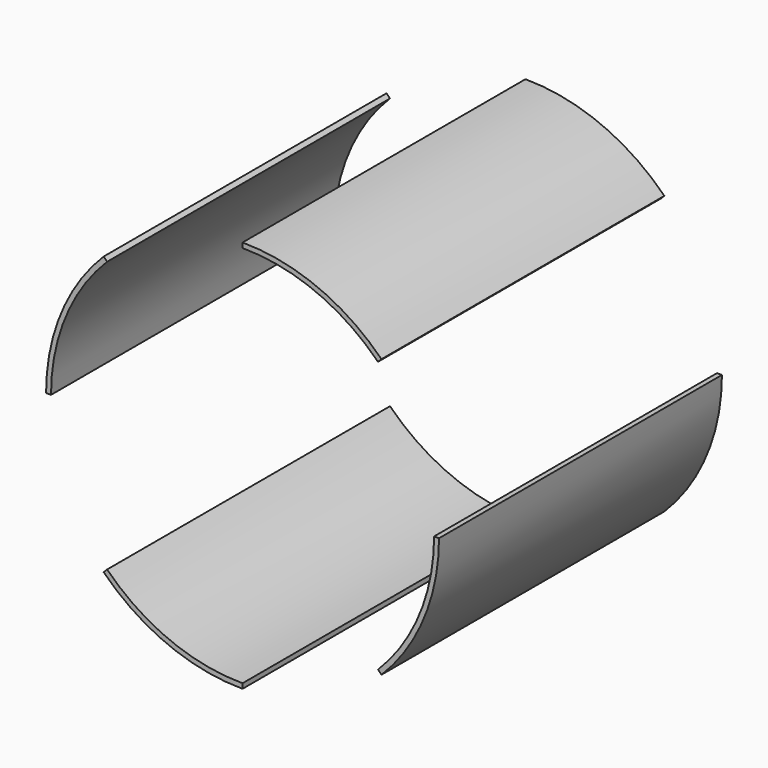
from build123d import *

# Parameters (mm, degrees)
F1_DEPTH = 228.6
F2_DEPTH = 254


with BuildPart() as f1:
    # F0 (on Front) → F1 (new body, symmetric)
    with BuildSketch(Plane.XZ):
        with BuildLine():
            Line((247.65, 0), (254, 0))
            ThreePointArc((254, 0), (234.6654012579, 97.2015918207), (179.6051224214, 179.6051224214))
            Line((179.6051224214, 179.6051224214), (175.1149943608, 175.1149943608))
            ThreePointArc((175.1149943608, 175.1149943608), (228.7987662264, 94.7715520252), (247.65, 0))
        make_face()
        with BuildLine():
            ThreePointArc((179.6051224214, -179.6051224214), (234.6654012579, -97.2015918207), (254, 0))
            Line((254, 0), (247.65, 0))
            ThreePointArc((247.65, 0), (228.7987662264, -94.7715520252), (175.1149943608, -175.1149943608))
            Line((175.1149943608, -175.1149943608), (179.6051224214, -179.6051224214))
        make_face()
        with BuildLine():
            Line((175.1149943608, 175.1149943608), (179.6051224214, 179.6051224214))
            ThreePointArc((179.6051224214, 179.6051224214), (97.2015918207, 234.6654012579), (0, 254))
            Line((0, 254), (0, 247.65))
            ThreePointArc((0, 247.65), (94.7715520252, 228.7987662264), (175.1149943608, 175.1149943608))
        make_face()
        with BuildLine():
            ThreePointArc((0, -254), (97.2015918207, -234.6654012579), (179.6051224214, -179.6051224214))
            Line((179.6051224214, -179.6051224214), (175.1149943608, -175.1149943608))
            ThreePointArc((175.1149943608, -175.1149943608), (94.7715520252, -228.7987662264), (0, -247.65))
            Line((0, -247.65), (0, -254))
        make_face()
        with BuildLine():
            Line((0, 247.65), (0, 254))
            ThreePointArc((0, 254), (-97.2015918207, 234.6654012579), (-179.6051224214, 179.6051224214))
            Line((-179.6051224214, 179.6051224214), (-175.1149943608, 175.1149943608))
            ThreePointArc((-175.1149943608, 175.1149943609), (-94.7715520252, 228.7987662264), (0, 247.65))
        make_face()
        with BuildLine():
            ThreePointArc((-179.6051224214, -179.6051224214), (-97.2015918207, -234.6654012579), (0, -254))
            Line((0, -254), (0, -247.65))
            ThreePointArc((0, -247.65), (-94.7715520252, -228.7987662264), (-175.1149943608, -175.1149943609))
            Line((-175.1149943608, -175.1149943608), (-179.6051224214, -179.6051224214))
        make_face()
        with BuildLine():
            Line((-175.1149943608, 175.1149943608), (-179.6051224214, 179.6051224214))
            ThreePointArc((-179.6051224214, 179.6051224214), (-234.6654012579, 97.2015918207), (-254, 0))
            Line((-254, 0), (-247.65, 0))
            ThreePointArc((-247.65, 0), (-228.7987662264, 94.7715520252), (-175.1149943608, 175.1149943609))
        make_face()
        with BuildLine():
            ThreePointArc((-254, 0), (-234.6654012579, -97.2015918207), (-179.6051224214, -179.6051224214))
            Line((-179.6051224214, -179.6051224214), (-175.1149943608, -175.1149943608))
            ThreePointArc((-175.1149943608, -175.1149943609), (-228.7987662264, -94.7715520252), (-247.65, 0))
            Line((-247.65, 0), (-254, 0))
        make_face()
    extrude(amount=F1_DEPTH, both=True)

    # F0 (on Front) → F2 (cut, symmetric)
    with BuildSketch(Plane.XZ):
        with BuildLine():
            Line((0, 247.65), (0, 254))
            ThreePointArc((0, 254), (-97.2015918207, 234.6654012579), (-179.6051224214, 179.6051224214))
            Line((-179.6051224214, 179.6051224214), (-175.1149943608, 175.1149943608))
            ThreePointArc((-175.1149943608, 175.1149943609), (-94.7715520252, 228.7987662264), (0, 247.65))
        make_face()
        with BuildLine():
            ThreePointArc((-254, 0), (-234.6654012579, -97.2015918207), (-179.6051224214, -179.6051224214))
            Line((-179.6051224214, -179.6051224214), (-175.1149943608, -175.1149943608))
            ThreePointArc((-175.1149943608, -175.1149943609), (-228.7987662264, -94.7715520252), (-247.65, 0))
            Line((-247.65, 0), (-254, 0))
        make_face()
        with BuildLine():
            ThreePointArc((0, -254), (97.2015918207, -234.6654012579), (179.6051224214, -179.6051224214))
            Line((179.6051224214, -179.6051224214), (175.1149943608, -175.1149943608))
            ThreePointArc((175.1149943608, -175.1149943608), (94.7715520252, -228.7987662264), (0, -247.65))
            Line((0, -247.65), (0, -254))
        make_face()
        with BuildLine():
            Line((247.65, 0), (254, 0))
            ThreePointArc((254, 0), (234.6654012579, 97.2015918207), (179.6051224214, 179.6051224214))
            Line((179.6051224214, 179.6051224214), (175.1149943608, 175.1149943608))
            ThreePointArc((175.1149943608, 175.1149943608), (228.7987662264, 94.7715520252), (247.65, 0))
        make_face()
    extrude(amount=F2_DEPTH, both=True, mode=Mode.SUBTRACT)


solid = f1.part
